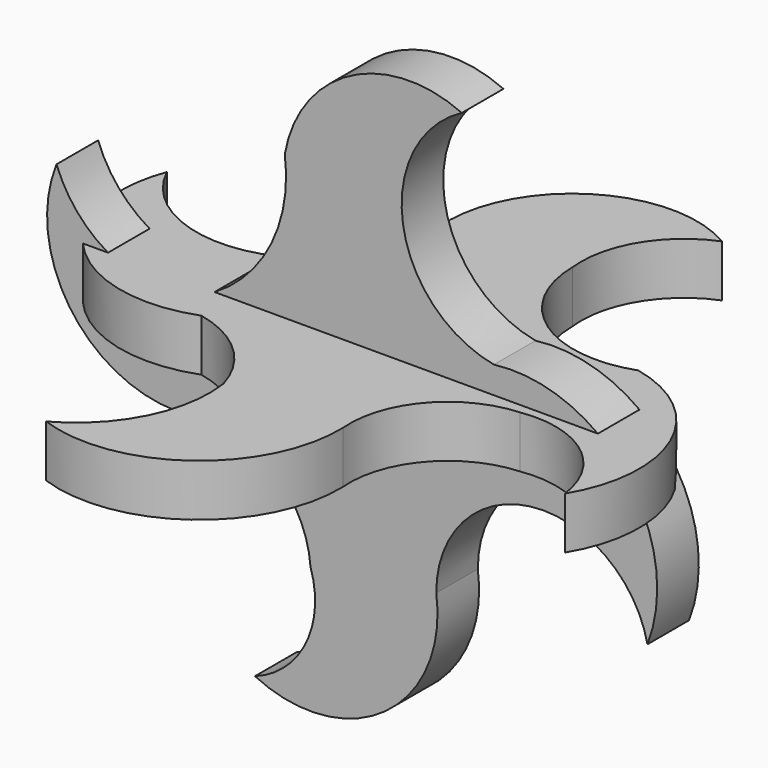
from build123d import *

# Parameters (mm, degrees)
F0_R     = 3.685707
F1_DEPTH = 6.35
F2_R     = 5.120349
F3_DEPTH = 6.35


with BuildPart() as f1:
    # F0 (on Front) → F1 (new body)
    with BuildSketch(Plane.XZ):
        with BuildLine():
            ThreePointArc((17.200846, 9.642899), (6.091089, 21.156396), (13.291564, 35.44417))
            ThreePointArc((13.291564, 35.44417), (-0.334019, 35.011045), (-8.339805, 23.976939))
            ThreePointArc((-8.339805, 23.976939), (-11.250098, 11.663599), (-21.631368, 4.430521))
            ThreePointArc((-21.631368, 4.430521), (-30.49241, 6.689218), (-36.226027, 13.812801))
            ThreePointArc((-36.226027, 13.812801), (-34.698625, -0.938197), (-21.631368, -7.950449))
            ThreePointArc((-21.631368, -7.950449), (-10.688629, -9.764152), (-5.199237, -19.402597))
            ThreePointArc((-5.199237, -19.402597), (-5.759321, -27.759772), (-11.988468, -33.359218))
            ThreePointArc((-11.988468, -33.359218), (3.946922, -31.941686), (10.164137, -17.200848))
            ThreePointArc((10.164137, -17.200848), (13.423837, -8.50833), (21.631368, -4.169902))
            ThreePointArc((21.631368, -4.169902), (30.782104, -6.454424), (35.965409, -14.33404))
            ThreePointArc((35.965409, -14.33404), (33.386103, 2.978498), (17.200846, 9.642899))
        make_face()
        Circle(F0_R, mode=Mode.SUBTRACT)
    extrude(amount=F1_DEPTH)

    # F2 (on Top) → F3 (join)
    with BuildSketch(Plane.XY):
        with BuildLine():
            ThreePointArc((-8.339805, 15.637133), (-20.024677, 2.159653), (-35.965409, 10.164137))
            ThreePointArc((-35.965409, 10.164137), (-32.218475, -7.199061), (-14.855277, -10.945993))
            ThreePointArc((-14.855277, -10.945993), (-8.314394, -14.331222), (-4.430521, -20.588893))
            ThreePointArc((-4.430521, -20.588893), (-5.98493, -30.236444), (-12.770326, -37.268501))
            ThreePointArc((-12.770326, -37.268501), (3.087232, -34.965397), (10.164137, -20.588893))
            ThreePointArc((10.164137, -20.588893), (13.009417, -11.701518), (21.37075, -7.557949))
            ThreePointArc((21.37075, -7.557949), (30.475481, -9.857536), (35.183549, -17.982703))
            ThreePointArc((35.183549, -17.982703), (36.214003, -3.178836), (24.758795, 6.254854))
            ThreePointArc((24.758795, 6.254854), (12.377986, 7.910951), (6.540132, 18.953893))
            ThreePointArc((6.540132, 18.953893), (8.22353, 26.82175), (14.33404, 32.056123))
            ThreePointArc((14.33404, 32.056123), (-2.401275, 31.301551), (-8.339805, 15.637133))
        make_face()
        Circle(F2_R, mode=Mode.SUBTRACT)
    extrude(amount=F3_DEPTH)


solid = f1.part
